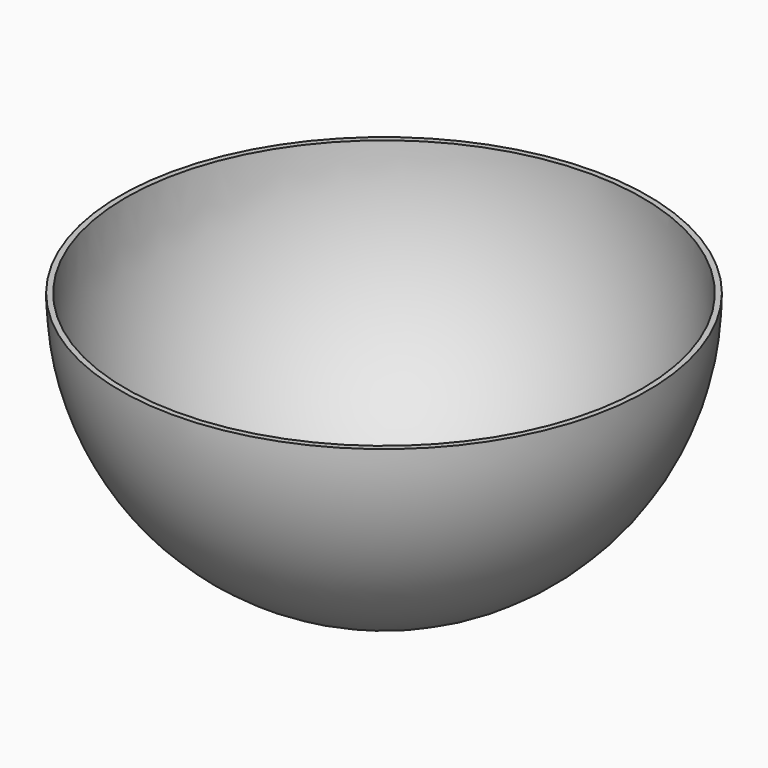
from build123d import *

# Parameters (mm, degrees)
F1_ANGLE = 180
F3_D     = 20


with BuildPart() as f1:
    # F0 (on Top) → F1 (revolve)
    with BuildSketch(Plane.XY):
        with BuildLine():
            Line((0, 47), (0, 48))
            ThreePointArc((0, 48), (-48, 0), (0, -48))
            Line((0, -48), (0, -47))
            ThreePointArc((0, -47), (-47, 0), (0, 47))
        make_face()
    revolve(axis=Axis((0, 47.5, 0), (0, -1, 0)), revolution_arc=F1_ANGLE)

    # F3 (through all)
    with Locations(Plane.XY):
        with Locations((0, 0)):
            Hole(F3_D / 2)


solid = f1.part
